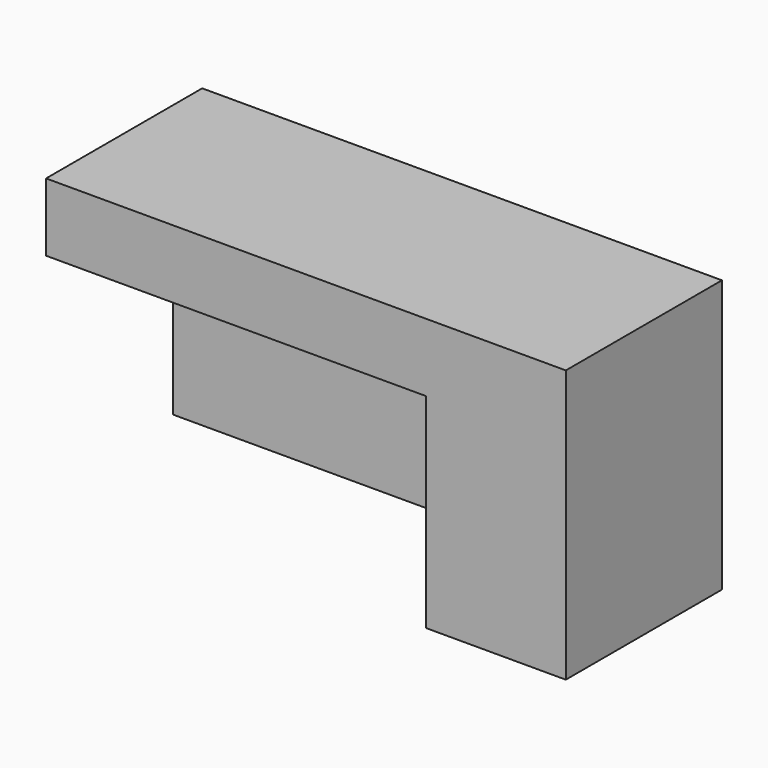
from build123d import *

# Parameters (mm, degrees)
F0_W      = 144.2271173
F0_H      = 81.7665755749
F1_DEPTH  = 25.4
F2_W      = 96.966505982
F2_H      = 36.4053957164
F3_DEPTH  = 50.8
F4_OFFSET = 12.7


with BuildPart() as f1:
    # F0 (on Top) → F1 (new body)
    with BuildSketch(Plane.XY):
        with Locations((-1.0436475277, -7.1625672281)):
            Rectangle(F0_W, F0_H)
    extrude(amount=F1_DEPTH)


with BuildPart() as f3:
    # F2 (on Top) → F3 (new body)
    with BuildSketch(Plane.XY):
        with Locations((61.348229181, 35.0621510297)):
            Rectangle(F2_W, F2_H)
    extrude(amount=F3_DEPTH)

    # F4: cut F1, made larger all round first
    f4_tool = offset(f1.part, amount=F4_OFFSET, kind=Kind.INTERSECTION, mode=Mode.PRIVATE)
    add(f4_tool, mode=Mode.SUBTRACT)


solid = f3.part
